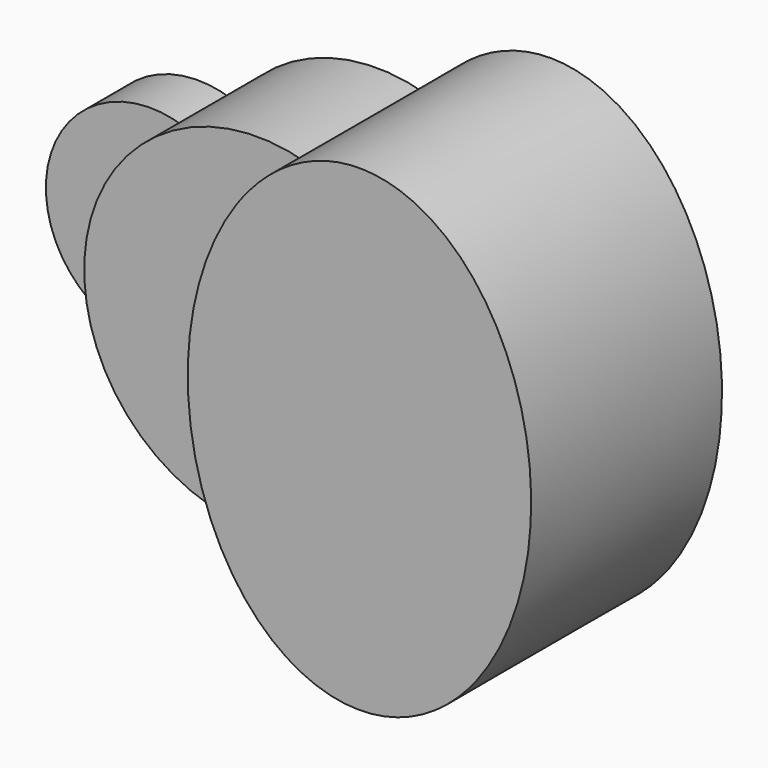
from build123d import *

# Parameters (mm, degrees)
F1_DEPTH = 25.4
F2_DEPTH = 63.5
F3_DEPTH = 101.6


with BuildPart() as f1:
    # F0 (on Front) → F1 (new body)
    with BuildSketch(Plane.XZ):
        with BuildLine():
            ThreePointArc((-60.9186488081, -41.7406612999), (-70.5408318627, -21.8484694768), (-73.8468995853, 0))
            ThreePointArc((-73.8468995853, 0), (-70.5408318627, 21.8484694768), (-60.9186488081, 41.7406612999))
            ThreePointArc((-60.9186488081, 41.7406612999), (-120.65, 0), (-60.9186488081, -41.7406612999))
        make_face()
    extrude(amount=F1_DEPTH)

    # F0 (on Front) → F2 (join)
    with BuildSketch(Plane.XZ):
        with BuildLine():
            Line((-73.8468995853, 0), (-31.75, 0))
            ThreePointArc((-31.75, 0), (-39.7647247816, 25.4612101001), (-60.9186488081, 41.7406612999))
            ThreePointArc((-60.9186488081, 41.7406612999), (-70.5408318627, 21.8484694768), (-73.8468995853, 0))
        make_face()
        with BuildLine():
            ThreePointArc((-60.9186488081, -41.7406612999), (-39.7647247816, -25.4612101001), (-31.75, 0))
            Line((-31.75, 0), (-73.8468995853, 0))
            ThreePointArc((-73.8468995853, 0), (-70.5408318627, -21.8484694768), (-60.9186488081, -41.7406612999))
        make_face()
        with BuildLine():
            ThreePointArc((-60.9186488081, 41.7406612999), (-39.7647247816, 25.4612101001), (-31.75, 0))
            ThreePointArc((-31.75, 0), (-39.7647247816, -25.4612101001), (-60.9186488081, -41.7406612999))
            ThreePointArc((-60.9186488081, -41.7406612999), (-24.5260284139, -69.6551398577), (21.3275323846, -70.7000773743))
            add(Edge.make_bspline(
                [(21.3275323846, 70.7000773743), (-27.9803553448, 0), (21.3275323846, -70.7000773743)],
                knots=[0.8011700317, 0.8011700317, 0.8011700317, 2.3404226219, 2.3404226219, 2.3404226219], degree=2, weights=[1, 0.7181707686, 1]))
            ThreePointArc((21.3275323846, 70.7000773743), (-24.5260284139, 69.6551398577), (-60.9186488081, 41.7406612999))
        make_face()
    extrude(amount=F2_DEPTH)

    # F0 (on Front) → F3 (join)
    with BuildSketch(Plane.XZ):
        with BuildLine():
            ThreePointArc((73.8468995853, 0), (59.2804213917, 44.0363056803), (21.3275323846, 70.7000773743))
            add(Edge.make_bspline(
                [(21.3275323846, 70.7000773743), (-27.9803553448, 0), (21.3275323846, -70.7000773743)],
                knots=[0.8011700317, 0.8011700317, 0.8011700317, 2.3404226219, 2.3404226219, 2.3404226219], degree=2, weights=[1, 0.7181707686, 1]))
            ThreePointArc((21.3275323846, -70.7000773743), (59.2804213917, -44.0363056803), (73.8468995853, 0))
        make_face()
        with BuildLine():
            add(Edge.make_bspline(
                [(73.8468995853, 101.6), (42.877861214, 101.6), (21.3275323846, 70.7000773743)],
                knots=[0, 0, 0, 0.8011700317, 0.8011700317, 0.8011700317], degree=2, weights=[1, 0.9208330205, 1]))
            ThreePointArc((21.3275323846, 70.7000773743), (59.2804213917, 44.0363056803), (73.8468995853, 0))
            Line((73.8468995853, 0), (73.8468995853, 101.6))
        make_face()
        with BuildLine():
            ThreePointArc((73.8468995853, 0), (59.2804213917, -44.0363056803), (21.3275323846, -70.7000773743))
            add(Edge.make_bspline(
                [(21.3275323846, -70.7000773743), (98.1411920419, -180.8392849383), (141.1868271444, -39.6196424692), (184.2324622468, 101.6), (73.8468995853, 101.6)],
                knots=[2.3404226219, 2.3404226219, 2.3404226219, 4.3118039645, 4.3118039645, 6.2831853072, 6.2831853072, 6.2831853072], degree=2, weights=[1, 0.5522874655, 1, 0.5522874655, 1]))
            Line((73.8468995853, 101.6), (73.8468995853, 0))
        make_face()
    extrude(amount=F3_DEPTH)


solid = f1.part
